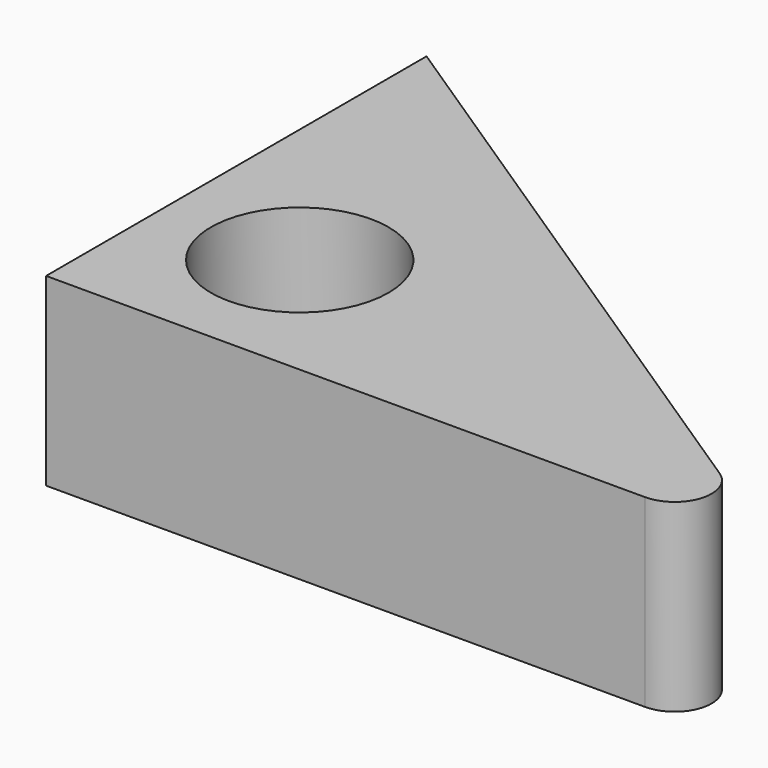
from build123d import *

# Parameters (mm, degrees)
F1_DEPTH = 25.4
F2_R     = 5.08
F3_R     = 12.218355
F4_DEPTH = 25.4


with BuildPart() as f1:
    # F0 (on Top) → F1 (new body)
    with BuildSketch(Plane.XY):
        Polygon((51.096436, -34.222286), (-48.252478, 31.188732), (-48.252478, -34.222286), align=None)
    extrude(amount=F1_DEPTH)

    # F2
    f2_edges = [f1.edges().sort_by_distance(p)[0] for p in [
        (51.096436, -34.222286, 12.7),
    ]]
    fillet(f2_edges, radius=F2_R)

    # F3 (on face) → F4 (cut)
    with BuildSketch(Plane.XY.offset(25.4)):
        with Locations((-29.29276, -14.314586)):
            Circle(F3_R)
    extrude(amount=-F4_DEPTH, mode=Mode.SUBTRACT)


solid = f1.part
